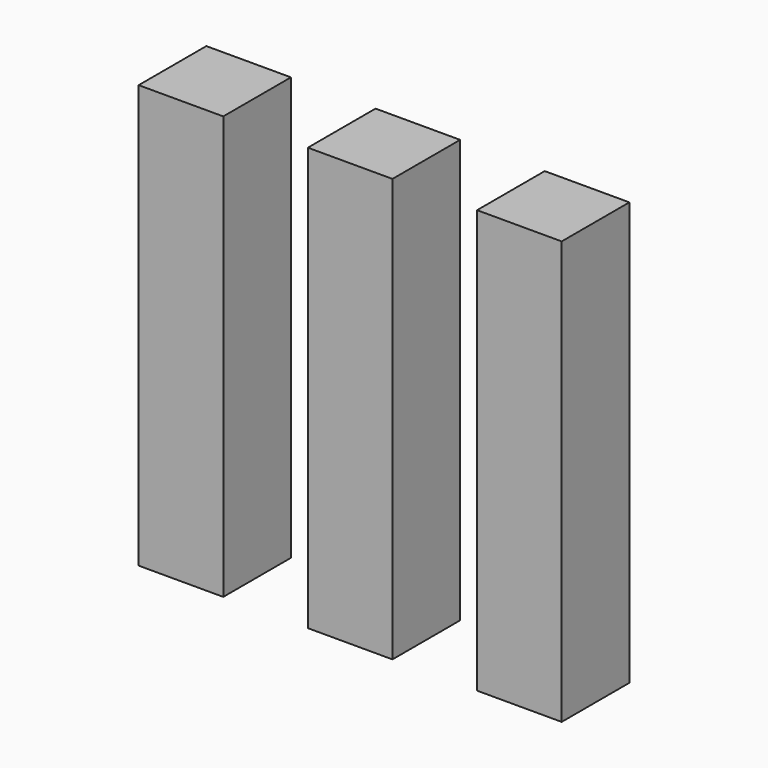
from build123d import *

# Parameters (mm, degrees)
F0_W     = 12.7
F0_H     = 63.5
F1_DEPTH = 12.7


with BuildPart() as f1:
    # F0 (on Front) → F1 (new body, symmetric)
    with BuildSketch(Plane.XZ):
        Polygon((-38.1, 12.7), (-38.1, 76.2), (-38.1, 139.7), (-63.5, 139.7), (-63.5, 12.7), align=None)
        Polygon((-12.7, 76.2), (0, 76.2), (12.7, 76.2), (12.7, 139.7), (-12.7, 139.7), align=None)
        with Locations((6.35, 44.45)):
            Rectangle(F0_W, F0_H)
        with Locations((-6.35, 44.45)):
            Rectangle(F0_W, F0_H)
        Polygon((38.1, 139.7), (38.1, 76.2), (38.1, 12.7), (63.5, 12.7), (63.5, 139.7), align=None)
    extrude(amount=F1_DEPTH, both=True)


solid = f1.part
